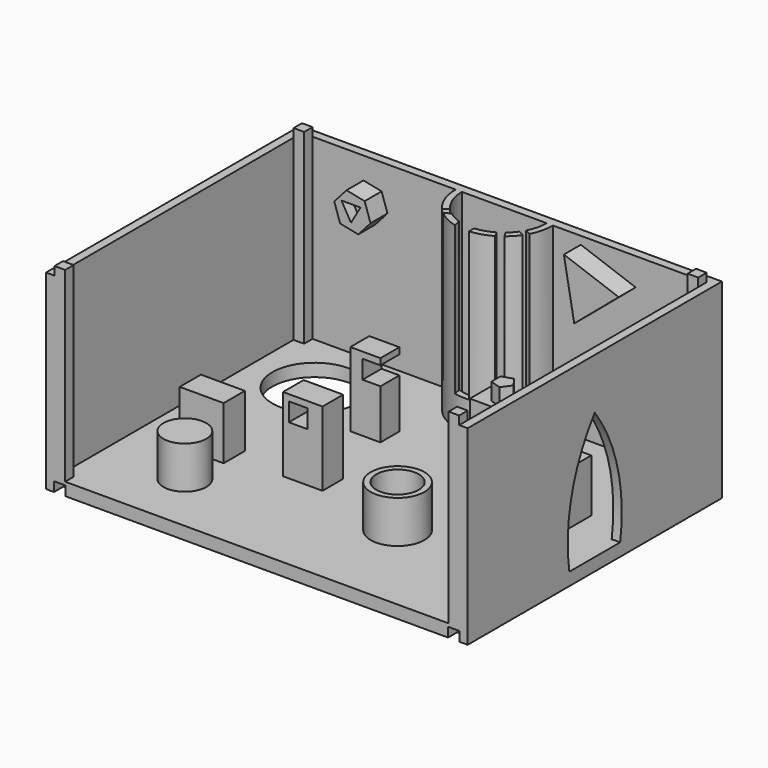
from build123d import *

# Parameters (mm, degrees)
F1_DEPTH  = 6
F2_DEPTH  = 90
F0_W      = 5
F0_H      = 5
F3_DEPTH  = 94
F4_W      = 5.5
F4_H      = 4.5
F5_DEPTH  = 5.5
F6_DEPTH  = 5.5
F7_R      = 20
F8_DEPTH  = 7
F9_DEPTH  = 6
F10_DEPTH = 84
F12_DEPTH = 4
F13_DEPTH = 5.5
F14_DEPTH = 25
F15_W     = 6
F15_H     = 6
F16_DEPTH = 4.5
F17_W     = 6
F17_H     = 6
F18_DEPTH = 4.5
F19_W     = 20.739749
F19_H     = 12.523103
F19_W_2   = 8.389108
F19_H_2   = 41.523981
F20_DEPTH = 25
F19_W_3   = 14.214885
F19_H_3   = 11.204887
F19_W_4   = 18.642471
F19_H_4   = 12.193553
F19_W_5   = 19.574596
F19_H_5   = 12.523113
F21_DEPTH = 35
F22_R     = 12.682536
F22_R_2   = 10.10667
F23_DEPTH = 20
F25_DEPTH = 10
F26_R     = 10
F27_DEPTH = 15
F28_W     = 8.713692
F28_H     = 8.713695
F29_DEPTH = 55
F31_DEPTH = 10
F33_DEPTH = 8
F35_DEPTH = 5
F37_DEPTH = 70


with BuildPart() as f1:
    # F0 (on Top) → F1 (new body)
    with BuildSketch(Plane.XY):
        Polygon((-90.5, -70), (-90.5, -75), (90.5, -75), (90.5, -70), (95.5, -70), (95.5, -66), (95.5, 66), (90.5, 66), (90.5, 71), (-90.5, 71), (-90.5, 66), (-95.5, 66), (-95.5, -66), (-95.5, -70), align=None)
        Polygon((99.5, 75), (-99.5, 75), (-99.5, -75), (-95.5, -75), (-95.5, -70), (-95.5, -66), (-95.5, 66), (-95.5, 71), (-90.5, 71), (90.5, 71), (95.5, 71), (95.5, 66), (95.5, -66), (95.5, -70), (95.5, -71), (95.5, -75), (99.5, -75), align=None)
    extrude(amount=F1_DEPTH)

    # F0 (on Top) → F2 (join)
    with BuildSketch(Plane.XY):
        Polygon((99.5, 75), (-99.5, 75), (-99.5, -75), (-95.5, -75), (-95.5, -70), (-95.5, -66), (-95.5, 66), (-95.5, 71), (-90.5, 71), (90.5, 71), (95.5, 71), (95.5, 66), (95.5, -66), (95.5, -70), (95.5, -71), (95.5, -75), (99.5, -75), align=None)
    extrude(amount=F2_DEPTH)

    # F0 (on Top) → F3 (join)
    with BuildSketch(Plane.XY):
        with Locations((-93, 68.5)):
            Rectangle(F0_W, F0_H)
        with Locations((93, 68.5)):
            Rectangle(F0_W, F0_H)
        Polygon((90.5, -75), (95.5, -75), (95.5, -71), (95.5, -70), (90.5, -70), align=None)
        with Locations((-93, -72.5)):
            Rectangle(F0_W, F0_H)
    extrude(amount=F3_DEPTH)

    # F4 (on face) → F5 (cut)
    with BuildSketch(Plane.XZ.offset(75)):
        with Locations((93, 2.25)):
            Rectangle(F4_W, F4_H)
    extrude(amount=-F5_DEPTH, mode=Mode.SUBTRACT)

    # F4 (on face) → F6 (cut)
    with BuildSketch(Plane.XZ.offset(75)):
        with Locations((-93, 2.25)):
            Rectangle(F4_W, F4_H)
    extrude(amount=F6_DEPTH, mode=Mode.SUBTRACT)

    # F7 (on face) → F8 (cut)
    with BuildSketch(Plane.XY.offset(6)):
        with Locations((-65.5, 41)):
            Circle(F7_R)
    extrude(amount=-F8_DEPTH, mode=Mode.SUBTRACT)

    # F7 (on face) → F9 (cut)
    with BuildSketch(Plane.XY.offset(6)):
        with BuildLine():
            Line((20, 71), (-20, 71))
            ThreePointArc((-20, 71), (0, 51), (20, 71))
        make_face()
    extrude(amount=-F9_DEPTH, mode=Mode.SUBTRACT)

    # F7 (on face) → F10 (join)
    with BuildSketch(Plane.XY.offset(6)):
        with BuildLine():
            Line((-20, 71), (-23, 71))
            ThreePointArc((-23, 71), (0, 48), (23, 71))
            Line((23, 71), (20, 71))
            ThreePointArc((20, 71), (0, 51), (-20, 71))
        make_face()
    extrude(amount=F10_DEPTH)

    # F11 (on face) → F12 (cut)
    with BuildSketch(Plane.YZ.offset(99.5)):
        with BuildLine():
            Line((-15.02791, 6), (14.97209, 6))
            ThreePointArc((14.97209, 6), (13.520819, 37.512182), (-0.02791, 66))
            ThreePointArc((-0.02791, 66), (-13.576638, 37.512182), (-15.02791, 6))
        make_face()
    extrude(amount=-F12_DEPTH, mode=Mode.SUBTRACT)

    # F4 (on face) → F13 (cut)
    with BuildSketch(Plane.XZ.offset(75)):
        with Locations((-93, 2.25)):
            Rectangle(F4_W, F4_H)
    extrude(amount=-F13_DEPTH, mode=Mode.SUBTRACT)

    # F0 (on Top) → F14 (join)
    with BuildSketch(Plane.XY):
        with Locations((-93, 68.5)):
            Rectangle(F0_W, F0_H)
    extrude(amount=F14_DEPTH)

    # F15 (on face) → F16 (cut)
    with BuildSketch(Plane(origin=(0, 0, 0), x_dir=(1, 0, 0), z_dir=(0, 0, -1))):
        with Locations((-93, -68.489519)):
            Rectangle(F15_W, F15_H)
    extrude(amount=-F16_DEPTH, mode=Mode.SUBTRACT)

    # F17 (on face) → F18 (cut)
    with BuildSketch(Plane(origin=(0, 0, 0), x_dir=(1, 0, 0), z_dir=(0, 0, -1))):
        with Locations((93, -68.5)):
            Rectangle(F17_W, F17_H)
    extrude(amount=-F18_DEPTH, mode=Mode.SUBTRACT)

    # F19 (on face) → F20 (join)
    with BuildSketch(Plane.XY.offset(6)):
        with Locations((-64.446979, -20.761568)):
            Rectangle(F19_W, F19_H)
        with Locations((73.623832, 4.284644)):
            Rectangle(F19_W_2, F19_H_2)
    extrude(amount=F20_DEPTH)

    # F19 (on face) → F21 (join)
    with BuildSketch(Plane.XY.offset(6)):
        with Locations((-26.462941, 27.683088)):
            Rectangle(F19_W_3, F19_H_3)
        with Locations((-21.219746, -15.323903)):
            Rectangle(F19_W_4, F19_H_4)
        with Locations((36.338889, 23.728418)):
            Rectangle(F19_W_5, F19_H_5)
    extrude(amount=F21_DEPTH)

    # F22 (on face) → F23 (join)
    with BuildSketch(Plane.XY.offset(6)):
        with Locations((29.347964, -28.670896)):
            Circle(F22_R)
        with Locations((-57.339538, -45.807783)):
            Circle(F22_R_2)
    extrude(amount=F23_DEPTH)

    # F24 (on face) → F25 (join)
    with BuildSketch(Plane.XZ.offset(-71)):
        Polygon((40.991751, 59.230904), (61.980041, 76.990236), (36.105864, 86.286962), align=None)
    extrude(amount=F25_DEPTH)

    # F26 (on face) → F27 (cut)
    with BuildSketch(Plane.XY.offset(26)):
        with Locations((29.347964, -28.670896)):
            Circle(F26_R)
    extrude(amount=-F27_DEPTH, mode=Mode.SUBTRACT)

    # F28 (on face) → F29 (cut)
    with BuildSketch(Plane.XZ.offset(21.42068)):
        with Locations((-23.41805, 33.660973)):
            Rectangle(F28_W, F28_H)
    extrude(amount=-F29_DEPTH, mode=Mode.SUBTRACT)

    # F30 (on face) → F31 (join)
    with BuildSketch(Plane.XZ.offset(-71)):
        Polygon((-60.947721, 63.067267), (-55.162239, 69.607382), (-57.933404, 77.887813), (-66.49005, 79.62813), (-72.275531, 73.088015), (-69.504367, 64.807584), align=None)
    extrude(amount=F31_DEPTH)

    # F32 (on face) → F33 (join)
    with BuildSketch(Plane.XY.offset(41)):
        Polygon((33.874482, 26.419034), (33.874482, 21.037802), (38.992337, 19.374911), (42.155346, 23.728418), (38.992337, 28.081926), align=None)
    extrude(amount=F33_DEPTH)

    # F34 (on face) → F35 (cut)
    with BuildSketch(Plane.XZ.offset(-61)):
        Polygon((-59.885368, 74.591823), (-68.859458, 74.591823), (-64.372413, 66.820033), align=None)
    extrude(amount=-F35_DEPTH, mode=Mode.SUBTRACT)

    # F36 (on face) → F37 (cut)
    with BuildSketch(Plane.XY.offset(90)):
        Polygon((1.664777, 54.871559), (-6.499225, 54.10137), (-4.958848, 46.553519), (1.664777, 46.553519), align=None)
        Polygon((11.985309, 56.951068), (9.674743, 54.640502), (12.293384, 49.865328), (15.402977, 51.570587), align=None)
        Polygon((-10.504208, 55.872802), (-13.81602, 58.183368), (-18.591192, 55.025596), (-16.126588, 53.177141), align=None)
        Polygon((16.837498, 61.957296), (16.307571, 59.421436), (20.30335, 57.413179), (21.556129, 59.905803), align=None)
    extrude(amount=-F37_DEPTH, mode=Mode.SUBTRACT)


solid = f1.part
